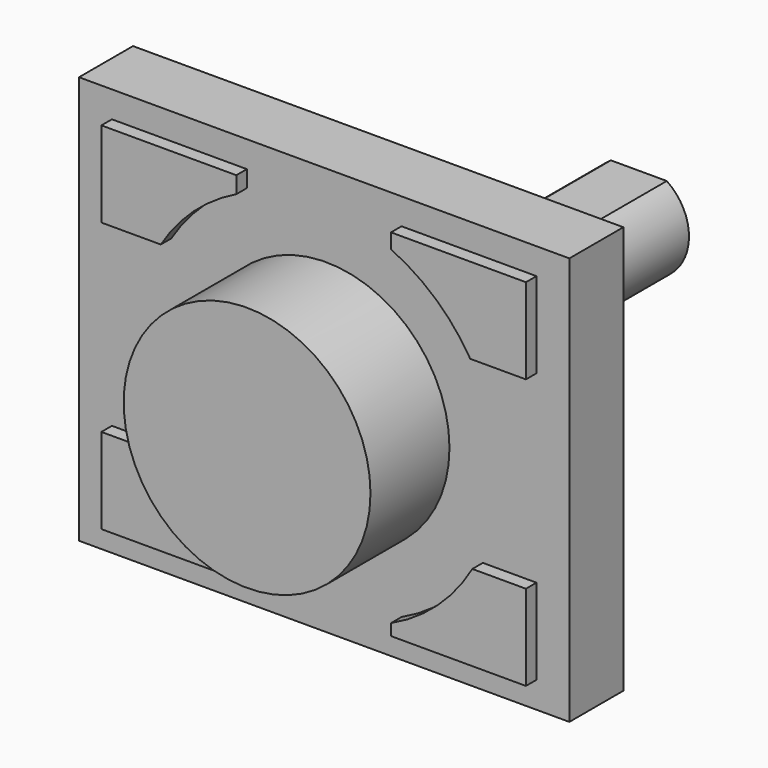
from build123d import *

# Parameters (mm, degrees)
F0_W     = 75.692
F0_H     = 62.992
F1_DEPTH = 10.414
F3_DEPTH = 2.032
F4_R     = 19.05
F5_DEPTH = 15.24
F7_DEPTH = 50.292
F8_DEPTH = 34.544


with BuildPart() as f1:
    # F0 (on Front) → F1 (new body)
    with BuildSketch(Plane.XZ):
        with Locations((37.846, 31.496)):
            Rectangle(F0_W, F0_H)
    extrude(amount=F1_DEPTH)

    # F2 (on face) → F3 (join)
    with BuildSketch(Plane.XZ.offset(10.414)):
        with BuildLine():
            Line((49.784, 4.064), (70.612, 4.064))
            Line((70.612, 4.064), (70.612, 17.272))
            Line((70.612, 17.272), (62.339714, 17.272))
            ThreePointArc((62.339714, 17.272), (56.952336, 10.57447), (49.784, 5.831505))
            Line((49.784, 5.831505), (49.784, 4.064))
        make_face()
        with BuildLine():
            Line((5.08, 17.272), (5.08, 4.064))
            Line((5.08, 4.064), (25.908, 4.064))
            Line((25.908, 4.064), (25.908, 6.103985))
            ThreePointArc((25.908, 6.103985), (19.081744, 10.790558), (13.928818, 17.272))
            Line((13.928818, 17.272), (5.08, 17.272))
        make_face()
        with BuildLine():
            Line((25.908, 58.928), (5.08, 58.928))
            Line((5.08, 58.928), (5.08, 45.72))
            Line((5.08, 45.72), (14.247149, 45.72))
            ThreePointArc((14.247149, 45.72), (19.311604, 51.875193), (25.908, 56.349862))
            Line((25.908, 56.349862), (25.908, 58.928))
        make_face()
        with BuildLine():
            Line((70.612, 58.928), (49.784, 58.928))
            Line((49.784, 58.928), (49.784, 56.622342))
            ThreePointArc((49.784, 56.622342), (56.720072, 52.088644), (62.021382, 45.72))
            Line((62.021382, 45.72), (70.612, 45.72))
            Line((70.612, 45.72), (70.612, 58.928))
        make_face()
    extrude(amount=F3_DEPTH)

    # F4 (on face) → F5 (join)
    with BuildSketch(Plane.XZ.offset(10.414)):
        with Locations((38.134266, 31.226924)):
            Circle(F4_R)
    extrude(amount=F5_DEPTH)

    # F6 (on face) → F7 (join)
    with BuildSketch(Plane(origin=(0, 0, 0), x_dir=(-1, 0, 0), z_dir=(0, 1, 0))):
        with BuildLine():
            ThreePointArc((-42.164043, 37.927991), (-41.490457, 24.659777), (-30.099, 31.496))
            ThreePointArc((-30.099, 31.496), (-31.009777, 35.140457), (-33.527957, 37.927991))
            Line((-33.527957, 37.927991), (-42.164043, 37.927991))
        make_face()
    extrude(amount=F7_DEPTH)

    # F6 (on face) → F8 (join)
    with BuildSketch(Plane(origin=(0, 0, 0), x_dir=(-1, 0, 0), z_dir=(0, 1, 0))):
        with BuildLine():
            Line((-42.164043, 37.927991), (-33.527957, 37.927991))
            ThreePointArc((-33.527957, 37.927991), (-37.846, 39.243), (-42.164043, 37.927991))
        make_face()
    extrude(amount=F8_DEPTH)


solid = f1.part
